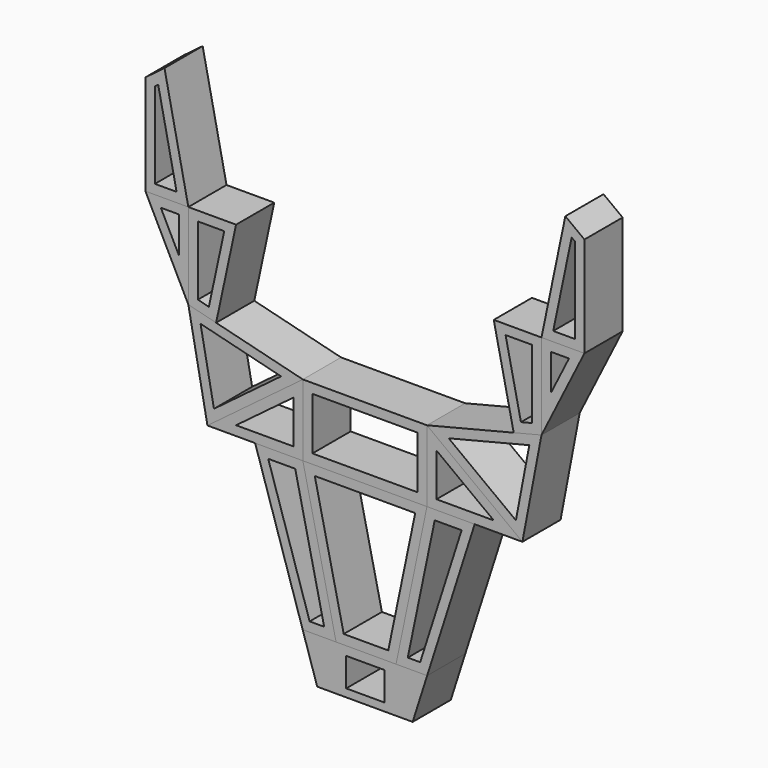
from build123d import *

# Parameters (mm, degrees)
F2_DEPTH = 100
F3_T     = -20
F3_2_T   = -20
F3_3_T   = -20
F3_4_T   = -20
F3_5_T   = -20
F3_6_T   = -20
F4_DEPTH = 100
F5_T     = -20
F5_2_T   = -20
F5_3_T   = -20
F5_4_T   = -20
F5_5_T   = -20
F5_6_T   = -20
F1_W     = 80
F1_H     = 60
F6_DEPTH = 100
F7_DEPTH = 100
F8_T     = -20
F8_2_T   = -20


with BuildPart() as f2:
    # F1 (on Front) → F2 (new body)
    with BuildSketch(Plane.XZ):
        Polygon((-580.8128714561, 490.5066199303), (-580.8128714561, 280.5066199303), (-490.8128714561, 280.5066199303), (-540.8128714561, 520.5066199303), align=None)
    extrude(amount=-F2_DEPTH)

    # F3
    f3_openings = [f2.faces().sort_by_distance(p)[0] for p in [
        (-545.879538, 100, 380.10662),
        (-545.879538, 0, 380.10662),
    ]]
    offset(amount=F3_T, openings=f3_openings)


with BuildPart() as f2b:
    # F1 (on Front) → F2, piece 2 (new body)
    with BuildSketch(Plane.XZ):
        Polygon((-490.8128714561, 280.5066199303), (-490.8128714561, 100.5066199303), (-432.6043214474, 85.9544824281), (-390.8128714561, 280.5066199303), align=None)
    extrude(amount=-F2_DEPTH)

    # F3#2
    f3_2_openings = [f2b.faces().sort_by_distance(p)[0] for p in [
        (-449.744553, 100, 194.653752),
        (-449.744553, 0, 194.653752),
    ]]
    offset(amount=F3_2_T, openings=f3_2_openings)


with BuildPart() as f2c:
    # F1 (on Front) → F2, piece 3 (new body)
    with BuildSketch(Plane.XZ):
        Polygon((-450.8128714561, -109.4933800697), (-350.8128714561, -109.4933800697), (-250.8128714561, -109.4933800697), (-250.8128714561, 40.5066199303), align=None)
    extrude(amount=-F2_DEPTH)

    # F3#3
    f3_3_openings = [f2c.faces().sort_by_distance(p)[0] for p in [
        (-317.479538, 0, -59.49338),
        (-317.479538, 100, -59.49338),
    ]]
    offset(amount=F3_3_T, openings=f3_3_openings)


with BuildPart() as f2d:
    # F1 (on Front) → F2, piece 4 (new body)
    with BuildSketch(Plane.XZ):
        Polygon((9.1871285439, 40.5066199303), (209.1871285439, -109.4933800697), (249.1871285439, 100.5066199303), (190.9785785351, 85.9544824281), align=None)
    extrude(amount=-F2_DEPTH)

    # F3#5
    f3_5_openings = [f2d.faces().sort_by_distance(p)[0] for p in [
        (155.853795, 100, 10.50662),
        (155.853795, 0, 10.50662),
    ]]
    offset(amount=F3_5_T, openings=f3_5_openings)


with BuildPart() as f2e:
    # F1 (on Front) → F2, piece 5 (new body)
    with BuildSketch(Plane.XZ):
        Polygon((249.1871285439, 280.5066199303), (249.1871285439, 100.5066199303), (339.1871285439, 280.5066199303), align=None)
    extrude(amount=-F2_DEPTH)

    # F3#6
    f3_6_openings = [f2e.faces().sort_by_distance(p)[0] for p in [
        (279.187129, 100, 220.50662),
        (279.187129, 0, 220.50662),
    ]]
    offset(amount=F3_6_T, openings=f3_6_openings)


with BuildPart() as f2f:
    # F1 (on Front) → F2, piece 6 (new body)
    with BuildSketch(Plane.XZ):
        Polygon((-250.8128714561, -109.4933800697), (-181.2394853326, -421.2346735489), (-120.8128714561, -421.2346735489), (-55.5995645179, -421.2346735489), (9.1871285439, -109.4933800697), (-120.8128714561, -109.4933800697), (-237.8204911947, -109.4933800697), align=None)
    extrude(amount=-F2_DEPTH)

    # F3#4
    f3_4_openings = [f2f.faces().sort_by_distance(p)[0] for p in [
        (-119.755175, 100, -247.261827),
        (-119.755175, 0, -247.261827),
    ]]
    offset(amount=F3_4_T, openings=f3_4_openings)


with BuildPart() as f4:
    # F1 (on Front) → F4 (new body)
    with BuildSketch(Plane.XZ):
        Polygon((-580.8128714561, 280.5066199303), (-490.8128714561, 100.5066199303), (-490.8128714561, 280.5066199303), align=None)
    extrude(amount=-F4_DEPTH)

    # F5#6
    f5_6_openings = [f4.faces().sort_by_distance(p)[0] for p in [
        (-520.812871, 100, 220.50662),
        (-520.812871, 0, 220.50662),
    ]]
    offset(amount=F5_6_T, openings=f5_6_openings)


with BuildPart() as f4b:
    # F1 (on Front) → F4, piece 2 (new body)
    with BuildSketch(Plane.XZ):
        Polygon((-490.8128714561, 100.5066199303), (-450.8128714561, -109.4933800697), (-250.8128714561, 40.5066199303), (-432.6043214474, 85.9544824281), align=None)
    extrude(amount=-F4_DEPTH)

    # F5#5
    f5_5_openings = [f4b.faces().sort_by_distance(p)[0] for p in [
        (-397.479538, 100, 10.50662),
        (-397.479538, 0, 10.50662),
    ]]
    offset(amount=F5_5_T, openings=f5_5_openings)


with BuildPart() as f4c:
    # F1 (on Front) → F4, piece 3 (new body)
    with BuildSketch(Plane.XZ):
        Polygon((9.1871285439, -109.4933800697), (109.1871285439, -109.4933800697), (209.1871285439, -109.4933800697), (9.1871285439, 40.5066199303), align=None)
    extrude(amount=-F4_DEPTH)

    # F5#3
    f5_3_openings = [f4c.faces().sort_by_distance(p)[0] for p in [
        (75.853795, 100, -59.49338),
        (75.853795, 0, -59.49338),
    ]]
    offset(amount=F5_3_T, openings=f5_3_openings)


with BuildPart() as f4d:
    # F1 (on Front) → F4, piece 4 (new body)
    with BuildSketch(Plane.XZ):
        Polygon((190.9785785351, 85.9544824281), (249.1871285439, 100.5066199303), (249.1871285439, 280.5066199303), (149.1871285439, 280.5066199303), align=None)
    extrude(amount=-F4_DEPTH)

    # F5#2
    f5_2_openings = [f4d.faces().sort_by_distance(p)[0] for p in [
        (208.11881, 100, 194.653752),
        (208.11881, 0, 194.653752),
    ]]
    offset(amount=F5_2_T, openings=f5_2_openings)


with BuildPart() as f4e:
    # F1 (on Front) → F4, piece 5 (new body)
    with BuildSketch(Plane.XZ):
        Polygon((249.1871285439, 280.5066199303), (339.1871285439, 280.5066199303), (339.1871285439, 490.5066199303), (299.1871285439, 520.5066199303), align=None)
    extrude(amount=-F4_DEPTH)

    # F5
    f5_openings = [f4e.faces().sort_by_distance(p)[0] for p in [
        (304.253795, 100, 380.10662),
        (304.253795, 0, 380.10662),
    ]]
    offset(amount=F5_T, openings=f5_openings)


with BuildPart() as f4f:
    # F1 (on Front) → F4, piece 6 (new body)
    with BuildSketch(Plane.XZ):
        Polygon((-350.8128714561, -109.4933800697), (-251.2394853326, -421.2346735489), (-181.2394853326, -421.2346735489), (-250.8128714561, -109.4933800697), align=None)
    extrude(amount=-F4_DEPTH)

    # F5#4
    f5_4_openings = [f4f.faces().sort_by_distance(p)[0] for p in [
        (-261.013631, 100, -256.195165),
        (-261.013631, 0, -256.195165),
    ]]
    offset(amount=F5_4_T, openings=f5_4_openings)


with BuildPart() as f6:
    # F1 (on Front) → F6 (new body)
    with BuildSketch(Plane.XZ):
        Polygon((-251.2394853326, -421.2346735489), (-220.8128714561, -516.4933800697), (-120.8128714561, -516.4933800697), (-20.8128714561, -516.4933800697), (9.6137424203, -421.2346735489), (-55.5995645179, -421.2346735489), (-120.8128714561, -421.2346735489), (-181.2394853326, -421.2346735489), align=None)
        with Locations((-120.0018757582, -469.8925626278)):
            Rectangle(F1_W, F1_H, mode=Mode.SUBTRACT)
    extrude(amount=-F6_DEPTH)


with BuildPart() as f6b:
    # F1 (on Front) → F6, piece 2 (new body)
    with BuildSketch(Plane.XZ):
        Polygon((-250.8128714561, 40.5066199303), (-250.8128714561, -109.4933800697), (-237.8204911947, -109.4933800697), (-120.8128714561, -109.4933800697), (9.1871285439, -109.4933800697), (9.1871285439, 40.5066199303), (-120.8128714561, 40.5066199303), align=None)
    extrude(amount=-F6_DEPTH)

    # F8#2
    f8_2_openings = [f6b.faces().sort_by_distance(p)[0] for p in [
        (-120.812871, 0, -34.49338),
        (-120.812871, 100, -34.49338),
    ]]
    offset(amount=F8_2_T, openings=f8_2_openings)


with BuildPart() as f7:
    # F1 (on Front) → F7 (new body)
    with BuildSketch(Plane.XZ):
        Polygon((-55.5995645179, -421.2346735489), (9.6137424203, -421.2346735489), (109.1871285439, -109.4933800697), (9.1871285439, -109.4933800697), align=None)
    extrude(amount=-F7_DEPTH)

    # F8
    f8_openings = [f7.faces().sort_by_distance(p)[0] for p in [
        (20.981029, 100, -254.424181),
        (20.981029, 0, -254.424181),
    ]]
    offset(amount=F8_T, openings=f8_openings)


solid = Compound([f2.part, f2b.part, f2c.part, f2d.part, f2e.part, f2f.part, f4.part, f4b.part, f4c.part, f4d.part, f4e.part, f4f.part, f6.part, f6b.part, f7.part])
